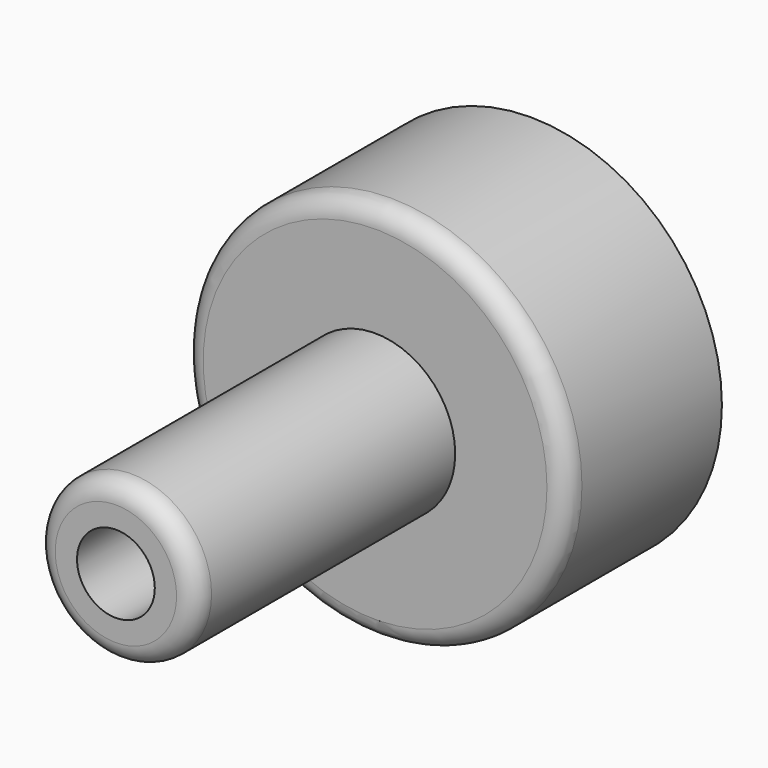
from build123d import *

# Parameters (mm, degrees)
F0_R      = 75
F1_DEPTH  = 76.2
F2_R      = 31.399649
F3_DEPTH  = 127
F3_FACE_R = 31.399649
F4_R      = 15.247419
F5_DEPTH  = 331.978
F6_R      = 7.62
F7_R      = 7.62


with BuildPart() as f1:
    # F0 (on Front) → F1 (new body)
    with BuildSketch(Plane.XZ):
        Circle(F0_R)
    extrude(amount=F1_DEPTH)

    # F2 (on face) → F3 (join)
    with BuildSketch(Plane.XZ.offset(76.2)):
        Circle(F2_R)
    extrude(amount=F3_DEPTH)

    # F3_face (on face) + F4 (on Front) → F5 (cut)
    with BuildSketch(Plane.XZ.offset(203.2)):
        Circle(F3_FACE_R)
    with BuildSketch(Plane.XZ):
        Circle(F4_R)
    extrude(amount=F5_DEPTH, mode=Mode.SUBTRACT)

    # F6
    f6_edges = [f1.edges().sort_by_distance(p)[0] for p in [
        (-31.399649, -203.2, 0),
    ]]
    fillet(f6_edges, radius=F6_R)

    # F7
    f7_edges = [f1.edges().sort_by_distance(p)[0] for p in [
        (-75, -76.2, 0),
    ]]
    fillet(f7_edges, radius=F7_R)


solid = f1.part
